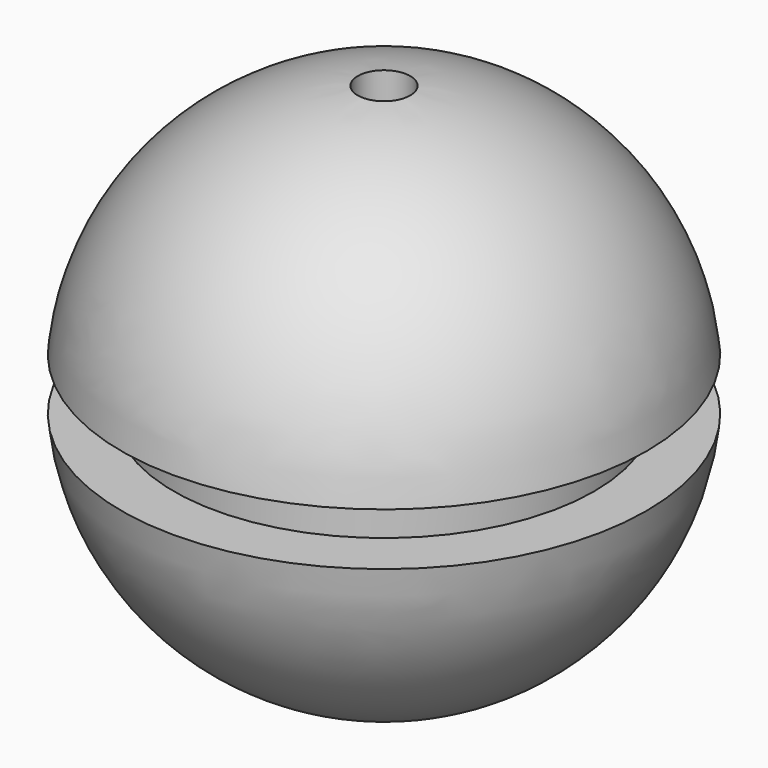
from build123d import *


with BuildPart() as f1:
    # F0 (on Front) → F1 (revolve)
    with BuildSketch(Plane.XZ):
        with BuildLine():
            Line((-8, 1), (-8, 0))
            Line((-8, 0), (-8, -1))
            Line((-8, -1), (-10, -1))
            ThreePointArc((-10, -1), (-7.106335, -7.106335), (-1, -10))
            Line((-1, -10), (-1, 10))
            ThreePointArc((-1, 10), (-7.106335, 7.106335), (-10, 1))
            Line((-10, 1), (-8, 1))
        make_face()
    revolve(axis=Axis((0, 0, 0), (0, 0, -1)))


solid = f1.part
